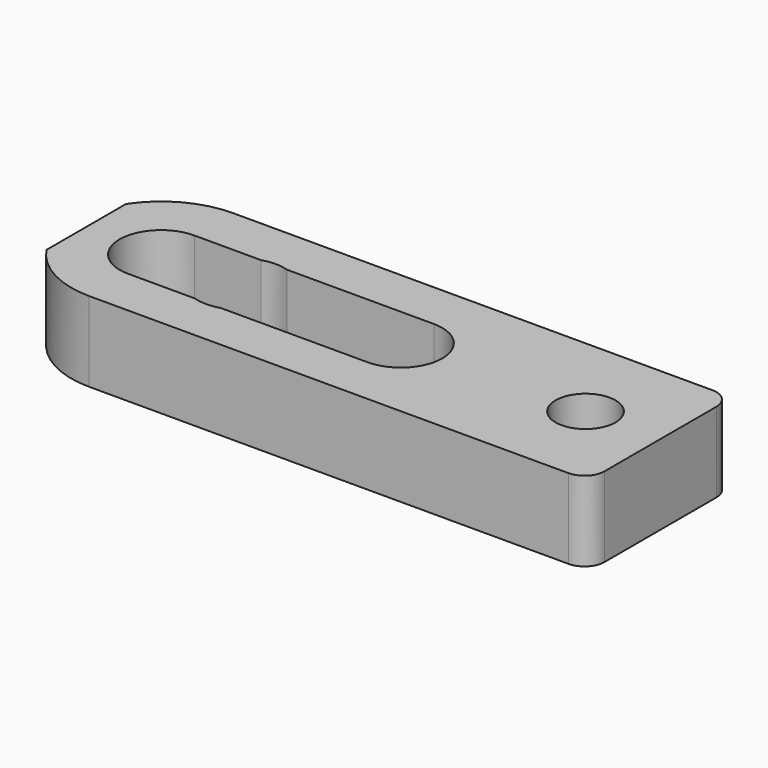
from build123d import *

# Parameters (mm, degrees)
SKETCH_R          = 3
PAD_DEPTH         = 4
SKETCH001_R       = 4.35
POCKET_DEPTH      = 4.001
POCKET_DEPTH_BACK = -4.001


with BuildPart() as part:
    # Sketch → Pad (new body, symmetric)
    with BuildSketch(Plane.XY):
        with BuildLine():
            Line((-24, 9), (24, 9))
            ThreePointArc((26, 7), (25.414214, 8.414214), (24, 9))
            Line((26, 7), (26, -7))
            ThreePointArc((24, -9), (25.414214, -8.414214), (26, -7))
            Line((24, -9), (-24, -9))
            ThreePointArc((-31.499988, -4.974955), (-28.255902, -7.930151), (-24, -9))
            Line((-31.499988, 4.974955), (-31.499988, -4.974955))
            ThreePointArc((-24, 9), (-28.255902, 7.930151), (-31.499988, 4.974955))
        make_face()
        with Locations((18.5, 0)):
            Circle(SKETCH_R, mode=Mode.SUBTRACT)
        with BuildLine():
            ThreePointArc((1.2e-05, -4.15), (4.15, 6e-06), (0, 4.15))
            Line((0, 4.15), (-24, 4.15))
            ThreePointArc((-24, 4.15), (-28.15, 0), (-24, -4.15))
            Line((-24, -4.15), (1.2e-05, -4.15))
        make_face(mode=Mode.SUBTRACT)
    extrude(amount=PAD_DEPTH, both=True)

    # Sketch001 → Pocket (cut, two sides)
    with BuildSketch(Plane.XY) as pocket_sk:
        with Locations((-16, 0)):
            Circle(SKETCH001_R)
    extrude(amount=-POCKET_DEPTH, mode=Mode.SUBTRACT)
    extrude(pocket_sk.sketch, amount=-POCKET_DEPTH_BACK, mode=Mode.SUBTRACT)


solid = part.part
